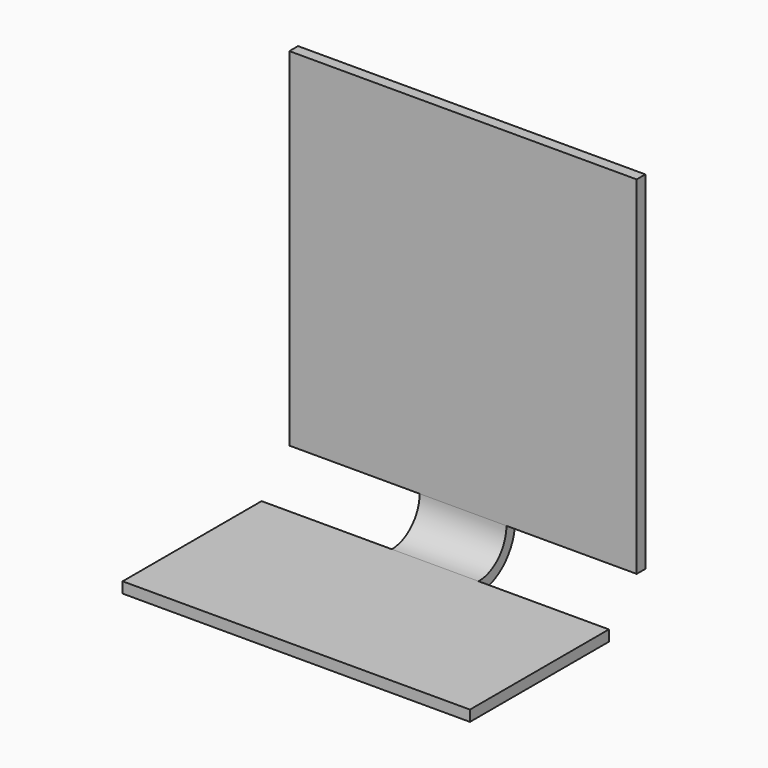
from build123d import *

# Parameters (mm, degrees)
F0_W          = 101.6
F0_H          = 50.8
F1_DEPTH      = 3.175
F5_DEPTH      = 12.7
F5_DEPTH_BACK = 12.7
F8_W          = 101.6
F8_H          = 101.6
F9_DEPTH      = 3.175


with BuildPart() as f1:
    # F0 (on Top) → F1 (new body)
    with BuildSketch(Plane.XY):
        with Locations((50.8, 25.4)):
            Rectangle(F0_W, F0_H)
    extrude(amount=F1_DEPTH)

    # F4 (on plane+point) → F5 (join, two sides)
    with BuildSketch(Plane.YZ.offset(50.8)) as f5_sk:
        with BuildLine():
            ThreePointArc((60.96, 13.335), (57.9842048969, 6.1507951031), (50.8, 3.175))
            Line((50.8, 3.175), (50.8, 0))
            ThreePointArc((50.8, 0), (60.2292689271, 3.9057310729), (64.135, 13.335))
            Line((64.135, 13.335), (60.96, 13.335))
        make_face()
    extrude(amount=F5_DEPTH)
    extrude(f5_sk.sketch, amount=-F5_DEPTH_BACK)

    # F8 (on plane+point) → F9 (join)
    with BuildSketch(Plane.XZ.offset(-60.96)):
        with Locations((50.8, 64.135)):
            Rectangle(F8_W, F8_H)
    extrude(amount=-F9_DEPTH)


solid = f1.part
